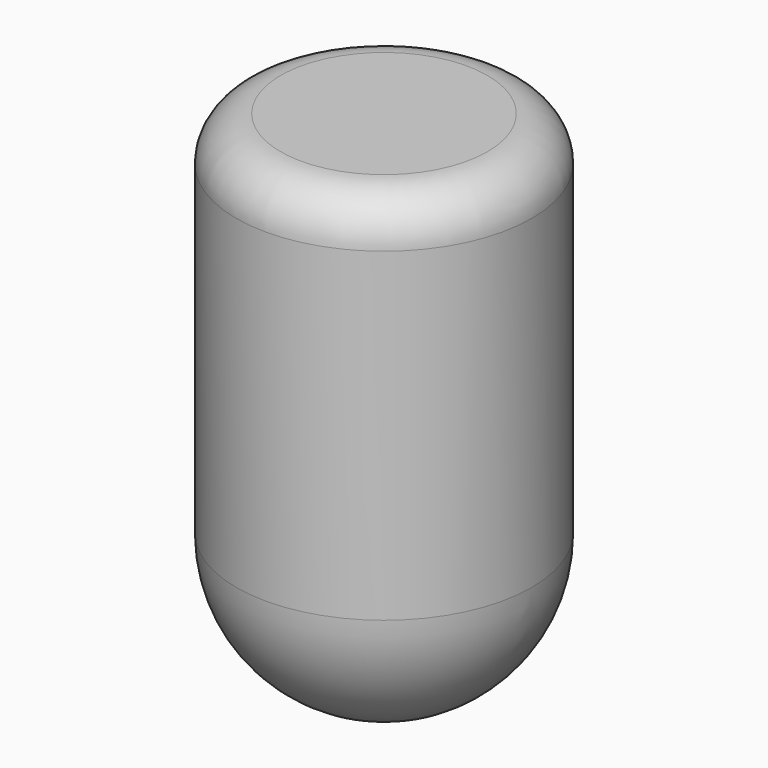
from build123d import *

# Parameters (mm, degrees)
CYLINDER004_R     = 100
CYLINDER004_DEPTH = 350
FILLET009_1_R     = 100
FILLET009_2_R     = 30


with BuildPart() as part:
    # Cylinder004 → Cylinder004 (new body)
    with BuildSketch(Plane(origin=(-350, 0, 1730), x_dir=(1, 0, 0), z_dir=(0, 0, 1))):
        Circle(CYLINDER004_R)
    extrude(amount=CYLINDER004_DEPTH)

    # Fillet009 1
    fillet009_1_edges = [part.edges().sort_by_distance(p)[0] for p in [
        (-450, 0, 1730),
    ]]
    fillet(fillet009_1_edges, radius=FILLET009_1_R)

    # Fillet009 2
    fillet009_2_edges = [part.edges().sort_by_distance(p)[0] for p in [
        (-450, 0, 2080),
    ]]
    fillet(fillet009_2_edges, radius=FILLET009_2_R)


solid = part.part
